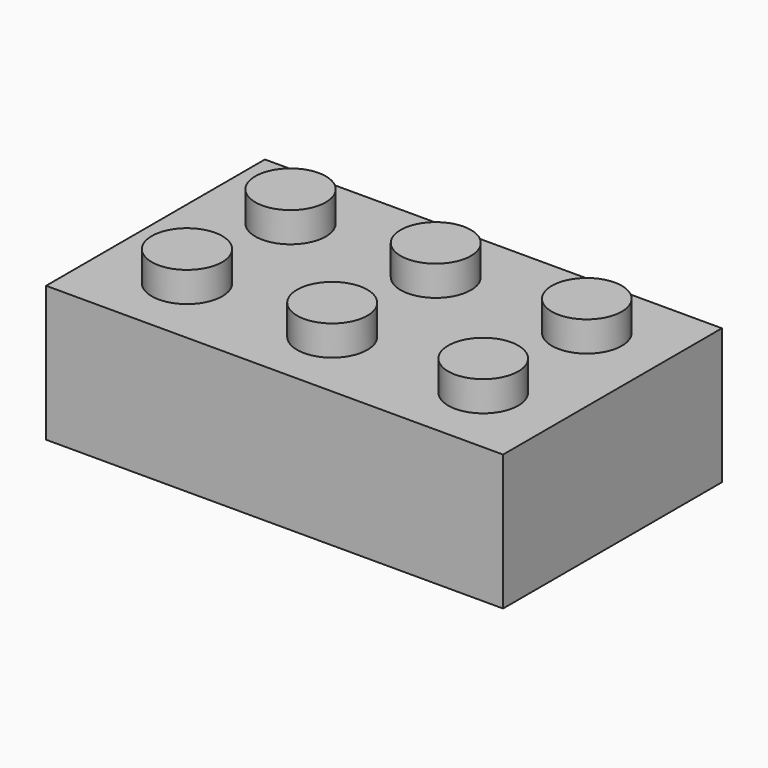
from build123d import *

# Parameters (mm, degrees)
F0_W     = 77.067762
F0_H     = 46.12676
F0_R     = 5.950275
F0_R_2   = 5.930231
F0_R_3   = 5.905875
F1_DEPTH = 22.86
F2_DEPTH = 27.94
F3_DEPTH = 27.94
F4_DEPTH = 10


with BuildPart() as f1:
    # F0 (on Top) → F1 (new body)
    with BuildSketch(Plane.XY):
        Rectangle(F0_W, F0_H)
        with Locations((-24.487047, -10.914768)):
            Circle(F0_R, mode=Mode.SUBTRACT)
        with Locations((0, -10.914768)):
            Circle(F0_R_2, mode=Mode.SUBTRACT)
        with Locations((25.469103, -10.914768)):
            Circle(F0_R_3, mode=Mode.SUBTRACT)
        with Locations((-24.487047, 10.914768)):
            Circle(F0_R, mode=Mode.SUBTRACT)
        with Locations((0, 10.914768)):
            Circle(F0_R_2, mode=Mode.SUBTRACT)
        with Locations((25.469103, 10.914768)):
            Circle(F0_R_3, mode=Mode.SUBTRACT)
    extrude(amount=F1_DEPTH)

    # F0 (on Top) → F2 (join)
    with BuildSketch(Plane.XY):
        with Locations((-24.487047, 10.914768)):
            Circle(F0_R)
        with Locations((0, 10.914768)):
            Circle(F0_R_2)
        with Locations((25.469103, 10.914768)):
            Circle(F0_R_3)
        with Locations((25.469103, -10.914768)):
            Circle(F0_R_3)
        with Locations((0, -10.914768)):
            Circle(F0_R_2)
        with Locations((-24.487047, -10.914768)):
            Circle(F0_R)
    extrude(amount=F2_DEPTH)

    # F0 (on Top) → F3 (join, through all)
    with BuildSketch(Plane.XY):
        with Locations((-24.487047, 10.914768)):
            Circle(F0_R)
        with Locations((-24.487047, -10.914768)):
            Circle(F0_R)
        with Locations((0, -10.914768)):
            Circle(F0_R_2)
        with Locations((0, 10.914768)):
            Circle(F0_R_2)
        with Locations((25.469103, 10.914768)):
            Circle(F0_R_3)
        with Locations((25.469103, -10.914768)):
            Circle(F0_R_3)
    extrude(amount=F3_DEPTH)

    # F0 (on Top) → F4 (cut)
    with BuildSketch(Plane.XY):
        with Locations((-24.487047, -10.914768)):
            Circle(F0_R)
        with Locations((0, -10.914768)):
            Circle(F0_R_2)
        with Locations((25.469103, -10.914768)):
            Circle(F0_R_3)
        with Locations((25.469103, 10.914768)):
            Circle(F0_R_3)
        with Locations((0, 10.914768)):
            Circle(F0_R_2)
        with Locations((-24.487047, 10.914768)):
            Circle(F0_R)
    extrude(amount=F4_DEPTH, mode=Mode.SUBTRACT)


solid = f1.part
